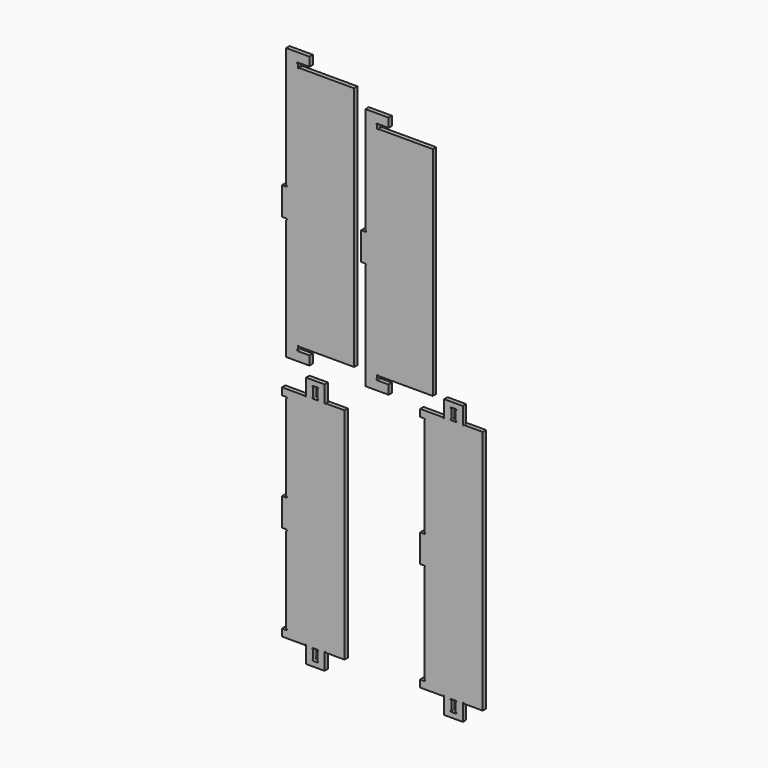
from build123d import *

# Parameters (mm, degrees)
F1_DEPTH = 18
F2_DEPTH = 18
F3_DEPTH = 18
F4_DEPTH = 18


with BuildPart() as f1:
    # F0 (on Front) → F1 (new body)
    with BuildSketch(Plane.XZ):
        with BuildLine():
            Line((-266.039889, 10.179062), (-266.039866, 1059.679332))
            Line((-266.039866, 1059.679332), (-501.47992, 1059.679337))
            ThreePointArc((-501.47992, 1059.679337), (-504.489921, 1056.669337), (-507.49992, 1059.679338))
            Line((-507.49992, 1059.679338), (-507.49992, 1072.159569))
            ThreePointArc((-507.49992, 1072.159569), (-510.50992, 1075.169569), (-507.49992, 1078.179569))
            Line((-507.49992, 1078.179569), (-457.49987, 1078.179568))
            Line((-457.49987, 1078.179568), (-457.499869, 1116.679637))
            Line((-457.499869, 1116.679637), (-556.999969, 1116.679639))
            Line((-556.999969, 1116.679639), (-556.99998, 600.699264))
            ThreePointArc((-556.99998, 600.699264), (-553.98998, 597.689264), (-556.99998, 594.679264))
            Line((-556.99998, 594.679264), (-574.999998, 594.679264))
            Line((-574.999998, 594.679264), (-575.000001, 475.179144))
            Line((-575.000001, 475.179144), (-556.999983, 475.179144))
            ThreePointArc((-556.999983, 475.179144), (-553.989983, 472.169144), (-556.999983, 469.159144))
            Line((-556.999983, 469.159144), (-556.999994, -46.821232))
            Line((-556.999994, -46.821232), (-457.499894, -46.821234))
            Line((-457.499894, -46.821234), (-457.499893, -8.321165))
            Line((-457.499893, -8.321165), (-507.499943, -8.321165))
            ThreePointArc((-507.499943, -8.321165), (-510.509943, -5.311165), (-507.499943, -2.301165))
            Line((-507.499943, -2.301165), (-507.499943, 10.179068))
            ThreePointArc((-507.499943, 10.179068), (-504.489943, 13.189068), (-501.479943, 10.179068))
            Line((-501.479943, 10.179068), (-266.039889, 10.179062))
        make_face()
    extrude(amount=F1_DEPTH)


with BuildPart() as f2:
    # F0 (on Front) → F2 (new body)
    with BuildSketch(Plane.XZ):
        with BuildLine():
            ThreePointArc((-168.700457, -8.008803), (-171.710457, -4.998803), (-168.700457, -1.988803))
            Line((-168.700457, -1.988803), (-168.700457, 10.49143))
            ThreePointArc((-168.700457, 10.49143), (-165.690457, 13.50143), (-162.680457, 10.49143))
            Line((-162.680457, 10.49143), (69.974936, 10.491424))
            Line((69.974936, 10.491424), (69.974956, 939.992258))
            Line((69.974956, 939.992258), (-162.680435, 939.992264))
            ThreePointArc((-162.680435, 939.992264), (-165.690435, 936.982264), (-168.700435, 939.992264))
            Line((-168.700435, 939.992264), (-168.700435, 952.472495))
            ThreePointArc((-168.700435, 952.472495), (-171.710435, 955.482495), (-168.700435, 958.492495))
            Line((-168.700435, 958.492495), (-118.700385, 958.492494))
            Line((-118.700385, 958.492494), (-118.700384, 996.992563))
            Line((-118.700384, 996.992563), (-218.200484, 996.992565))
            Line((-218.200484, 996.992565), (-218.200495, 541.011987))
            ThreePointArc((-218.200495, 541.011987), (-215.190495, 538.001987), (-218.200495, 534.991987))
            Line((-218.200495, 534.991987), (-236.200513, 534.991987))
            Line((-236.200513, 534.991987), (-236.200516, 415.491867))
            Line((-236.200516, 415.491867), (-218.200498, 415.491867))
            ThreePointArc((-218.200498, 415.491867), (-215.190498, 412.481867), (-218.200498, 409.471867))
            Line((-218.200498, 409.471867), (-218.200508, -46.50887))
            Line((-218.200508, -46.50887), (-118.700408, -46.508872))
            Line((-118.700408, -46.508872), (-118.700407, -8.008804))
            Line((-118.700407, -8.008804), (-168.700457, -8.008803))
        make_face()
    extrude(amount=F2_DEPTH)


with BuildPart() as f3:
    # F0 (on Front) → F3 (new body)
    with BuildSketch(Plane.XZ):
        with BuildLine():
            Line((-307.499733, -1104.999546), (-307.499733, -166.498608))
            Line((-307.499733, -166.498608), (-386.479808, -166.498608))
            ThreePointArc((-386.479808, -166.498608), (-389.489808, -169.508608), (-392.499808, -166.498608))
            Line((-392.499808, -166.498608), (-392.499808, -96.498154))
            Line((-392.499808, -96.498154), (-471.999888, -96.498154))
            Line((-471.999888, -96.498154), (-471.999888, -166.498608))
            ThreePointArc((-471.999888, -166.498608), (-475.009888, -169.508608), (-478.019888, -166.498608))
            Line((-478.019888, -166.498608), (-575.000001, -166.498608))
            Line((-575.000001, -166.498608), (-575.000001, -196.998639))
            Line((-575.000001, -196.998639), (-556.999983, -196.998639))
            ThreePointArc((-556.999983, -196.998639), (-553.989983, -200.008639), (-556.999983, -203.018639))
            Line((-556.999983, -203.018639), (-556.999983, -569.979017))
            ThreePointArc((-556.999983, -569.979017), (-553.989983, -572.989017), (-556.999983, -575.999017))
            Line((-556.999983, -575.999017), (-575.000001, -575.999017))
            Line((-575.000001, -575.999017), (-575.000001, -695.499137))
            Line((-575.000001, -695.499137), (-556.999983, -695.499137))
            ThreePointArc((-556.999983, -695.499137), (-553.989983, -698.509137), (-556.999983, -701.519137))
            Line((-556.999983, -701.519137), (-556.999983, -1068.479515))
            ThreePointArc((-556.999983, -1068.479515), (-553.989983, -1071.489515), (-556.999983, -1074.499515))
            Line((-556.999983, -1074.499515), (-575.000001, -1074.499515))
            Line((-575.000001, -1074.499515), (-575, -1104.999546))
            Line((-575, -1104.999546), (-478.019908, -1104.999546))
            ThreePointArc((-478.019908, -1104.999546), (-475.009908, -1101.989546), (-471.999908, -1104.999546))
            Line((-471.999908, -1104.999546), (-471.999908, -1175))
            Line((-471.999908, -1175), (-392.499828, -1175))
            Line((-392.499828, -1175), (-392.499828, -1104.999546))
            ThreePointArc((-392.499828, -1104.999546), (-389.489828, -1101.989546), (-386.479828, -1104.999546))
            Line((-386.479828, -1104.999546), (-307.499733, -1104.999546))
        make_face()
        with BuildLine():
            Line((-422.999859, -1111.019546), (-422.999859, -1147.479594))
            ThreePointArc((-422.999859, -1147.479594), (-419.989859, -1150.489594), (-422.999859, -1153.499594))
            Line((-422.999859, -1153.499594), (-441.499877, -1153.499594))
            ThreePointArc((-441.499877, -1153.499594), (-444.509877, -1150.489594), (-441.499877, -1147.479594))
            Line((-441.499877, -1147.479594), (-441.499877, -1111.019546))
            ThreePointArc((-441.499877, -1111.019546), (-444.509877, -1108.009546), (-441.499877, -1104.999546))
            Line((-441.499877, -1104.999546), (-422.999859, -1104.999546))
            ThreePointArc((-422.999859, -1104.999546), (-419.989859, -1108.009546), (-422.999859, -1111.019546))
        make_face(mode=Mode.SUBTRACT)
        with BuildLine():
            Line((-441.499857, -160.478608), (-441.499857, -124.01856))
            ThreePointArc((-441.499857, -124.01856), (-444.509857, -121.00856), (-441.499857, -117.99856))
            Line((-441.499857, -117.99856), (-422.999839, -117.99856))
            ThreePointArc((-422.999839, -117.99856), (-419.989839, -121.00856), (-422.999839, -124.01856))
            Line((-422.999839, -124.01856), (-422.999839, -160.478608))
            ThreePointArc((-422.999839, -160.478608), (-419.989839, -163.488608), (-422.999839, -166.498608))
            Line((-422.999839, -166.498608), (-441.499857, -166.498608))
            ThreePointArc((-441.499857, -166.498608), (-444.509857, -163.488608), (-441.499857, -160.478608))
        make_face(mode=Mode.SUBTRACT)
    extrude(amount=F3_DEPTH)


with BuildPart() as f4:
    # F0 (on Front) → F4 (new body)
    with BuildSketch(Plane.XZ):
        with BuildLine():
            Line((283.363764, -1104.999546), (283.363764, -55.498655))
            Line((283.363764, -55.498655), (204.383669, -55.498655))
            ThreePointArc((204.383669, -55.498655), (201.373669, -58.508655), (198.363669, -55.498655))
            Line((198.363669, -55.498655), (198.363669, 14.501799))
            Line((198.363669, 14.501799), (118.863589, 14.501799))
            Line((118.863589, 14.501799), (118.863589, -55.498655))
            ThreePointArc((118.863589, -55.498655), (115.853589, -58.508655), (112.843589, -55.498655))
            Line((112.843589, -55.498655), (15.863496, -55.498655))
            Line((15.863496, -55.498655), (15.863496, -85.998686))
            Line((15.863496, -85.998686), (33.863514, -85.998686))
            ThreePointArc((33.863514, -85.998686), (36.873514, -89.008686), (33.863514, -92.018686))
            Line((33.863514, -92.018686), (33.863514, -514.479041))
            ThreePointArc((33.863514, -514.479041), (36.873514, -517.489041), (33.863514, -520.499041))
            Line((33.863514, -520.499041), (15.863496, -520.499041))
            Line((15.863496, -520.499041), (15.863496, -639.999161))
            Line((15.863496, -639.999161), (33.863514, -639.999161))
            ThreePointArc((33.863514, -639.999161), (36.873514, -643.009161), (33.863514, -646.019161))
            Line((33.863514, -646.019161), (33.863514, -1068.479515))
            ThreePointArc((33.863514, -1068.479515), (36.873514, -1071.489515), (33.863514, -1074.499515))
            Line((33.863514, -1074.499515), (15.863496, -1074.499515))
            Line((15.863496, -1074.499515), (15.863496, -1104.999546))
            Line((15.863496, -1104.999546), (112.843589, -1104.999546))
            ThreePointArc((112.843589, -1104.999546), (115.853589, -1101.989546), (118.863589, -1104.999546))
            Line((118.863589, -1104.999546), (118.863589, -1175))
            Line((118.863589, -1175), (198.363669, -1175))
            Line((198.363669, -1175), (198.363669, -1104.999546))
            ThreePointArc((198.363669, -1104.999546), (201.373669, -1101.989546), (204.383669, -1104.999546))
            Line((204.383669, -1104.999546), (283.363764, -1104.999546))
        make_face()
        with BuildLine():
            Line((167.863638, -1111.019546), (167.863638, -1147.479594))
            ThreePointArc((167.863638, -1147.479594), (170.873638, -1150.489594), (167.863638, -1153.499594))
            Line((167.863638, -1153.499594), (149.36362, -1153.499594))
            ThreePointArc((149.36362, -1153.499594), (146.35362, -1150.489594), (149.36362, -1147.479594))
            Line((149.36362, -1147.479594), (149.36362, -1111.019546))
            ThreePointArc((149.36362, -1111.019546), (146.35362, -1108.009546), (149.36362, -1104.999546))
            Line((149.36362, -1104.999546), (167.863638, -1104.999546))
            ThreePointArc((167.863638, -1104.999546), (170.873638, -1108.009546), (167.863638, -1111.019546))
        make_face(mode=Mode.SUBTRACT)
        with BuildLine():
            Line((167.863638, -13.018607), (167.863638, -49.478655))
            ThreePointArc((167.863638, -49.478655), (170.873638, -52.488655), (167.863638, -55.498655))
            Line((167.863638, -55.498655), (149.36362, -55.498655))
            ThreePointArc((149.36362, -55.498655), (146.35362, -52.488655), (149.36362, -49.478655))
            Line((149.36362, -49.478655), (149.36362, -13.018607))
            ThreePointArc((149.36362, -13.018607), (146.35362, -10.008607), (149.36362, -6.998607))
            Line((149.36362, -6.998607), (167.863638, -6.998607))
            ThreePointArc((167.863638, -6.998607), (170.873638, -10.008607), (167.863638, -13.018607))
        make_face(mode=Mode.SUBTRACT)
    extrude(amount=F4_DEPTH)


solid = Compound([f1.part, f2.part, f3.part, f4.part])
